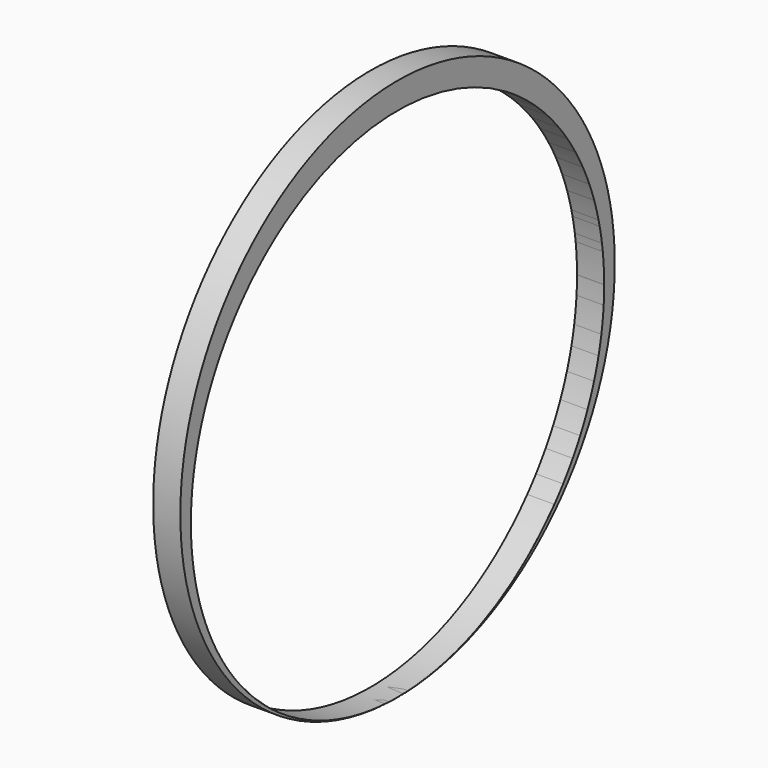
from build123d import *

# Parameters (mm, degrees)
F0_R     = 50
F1_DEPTH = 5


with BuildPart() as f1:
    # F0 (on Right) → F1 (new body)
    with BuildSketch(Plane.YZ):
        Circle(F0_R)
        with BuildLine():
            ThreePointArc((47.248112, 3.066945), (47.486037, 0.32898), (47.565433, -2.418156))
            ThreePointArc((47.565433, -2.418156), (47.565428, -2.440249), (47.565413, -2.462341))
            ThreePointArc((47.565413, -2.462341), (47.536276, -4.083355), (47.451912, -5.702434))
            ThreePointArc((47.451912, -5.702434), (47.241384, -7.960908), (46.923425, -10.206777))
            ThreePointArc((46.923425, -10.206777), (46.626401, -11.822901), (46.273731, -13.4278))
            ThreePointArc((46.273731, -13.4278), (45.790426, -15.290892), (45.232142, -17.132904))
            ThreePointArc((45.232142, -17.132904), (44.526808, -19.146391), (43.731895, -21.126225))
            ThreePointArc((43.731895, -21.126225), (42.925415, -22.909111), (42.046287, -24.657317))
            ThreePointArc((42.046287, -24.657317), (41.215832, -26.161064), (40.33162, -27.633844))
            ThreePointArc((40.33162, -27.633844), (39.257622, -29.275364), (38.116854, -30.871204))
            ThreePointArc((38.116854, -30.871204), (37.132326, -32.14459), (36.105277, -33.383935))
            ThreePointArc((36.105277, -33.383935), (0, -49.98359), (-36.105277, -33.383935))
            ThreePointArc((-36.105277, -33.383935), (-37.132326, -32.14459), (-38.116854, -30.871204))
            ThreePointArc((-38.116854, -30.871204), (-39.257622, -29.275364), (-40.33162, -27.633844))
            ThreePointArc((-40.33162, -27.633844), (-41.215832, -26.161064), (-42.046287, -24.657317))
            ThreePointArc((-42.046287, -24.657317), (-42.925415, -22.909111), (-43.731895, -21.126225))
            ThreePointArc((-43.731895, -21.126225), (-44.526808, -19.146391), (-45.232142, -17.132904))
            ThreePointArc((-45.232142, -17.132904), (-45.790426, -15.290892), (-46.273731, -13.4278))
            ThreePointArc((-46.273731, -13.4278), (-46.626401, -11.822901), (-46.923425, -10.206777))
            ThreePointArc((-46.923425, -10.206777), (-47.241384, -7.960908), (-47.451912, -5.702434))
            ThreePointArc((-47.451912, -5.702434), (-47.536276, -4.083355), (-47.565413, -2.462341))
            ThreePointArc((-47.565413, -2.462341), (-47.487308, 0.306924), (-47.248112, 3.066945))
            ThreePointArc((-47.248112, 3.066945), (-47.15882, 3.787982), (-47.058525, 4.507571))
            ThreePointArc((-47.058525, 4.507571), (-46.815862, 5.992878), (-46.526331, 7.469763))
            ThreePointArc((-46.526331, 7.469763), (-46.403436, 8.03132), (-46.273764, 8.591351))
            ThreePointArc((-46.273764, 8.591351), (-45.805713, 10.400077), (-45.266993, 12.189027))
            ThreePointArc((-45.266993, 12.189027), (-44.740599, 13.729576), (-44.161793, 15.251209))
            ThreePointArc((-44.161793, 15.251209), (-43.43838, 16.961669), (-42.648747, 18.642586))
            ThreePointArc((-42.648747, 18.642586), (-41.860885, 20.16805), (-41.018483, 21.664088))
            ThreePointArc((-41.018483, 21.664088), (-40.067748, 23.214753), (-39.05842, 24.727935))
            ThreePointArc((-39.05842, 24.727935), (-38.120143, 26.030484), (-37.138446, 27.30063))
            ThreePointArc((-37.138446, 27.30063), (-35.80078, 28.899165), (-34.394365, 30.43756))
            ThreePointArc((-34.394365, 30.43756), (-33.212951, 31.631371), (-31.990127, 32.782727))
            ThreePointArc((-31.990127, 32.782727), (-30.127888, 34.389191), (-28.185102, 35.897252))
            ThreePointArc((-28.185102, 35.897252), (-26.603538, 37.011809), (-24.977955, 38.061125))
            ThreePointArc((-24.977955, 38.061125), (0, 45.147277), (24.977955, 38.061125))
            ThreePointArc((24.977955, 38.061125), (26.603538, 37.011809), (28.185102, 35.897252))
            ThreePointArc((28.185102, 35.897252), (30.127888, 34.389191), (31.990127, 32.782727))
            ThreePointArc((31.990127, 32.782727), (33.212951, 31.631371), (34.394365, 30.43756))
            ThreePointArc((34.394365, 30.43756), (35.80078, 28.899165), (37.138446, 27.30063))
            ThreePointArc((37.138446, 27.30063), (38.120143, 26.030484), (39.05842, 24.727935))
            ThreePointArc((39.05842, 24.727935), (40.067748, 23.214753), (41.018483, 21.664088))
            ThreePointArc((41.018483, 21.664088), (41.860885, 20.16805), (42.648747, 18.642586))
            ThreePointArc((42.648747, 18.642586), (43.43838, 16.961669), (44.161793, 15.251209))
            ThreePointArc((44.161793, 15.251209), (44.740599, 13.729576), (45.266993, 12.189027))
            ThreePointArc((45.266993, 12.189027), (45.805713, 10.400077), (46.273764, 8.591351))
            ThreePointArc((46.273764, 8.591351), (46.403436, 8.03132), (46.526331, 7.469763))
            ThreePointArc((46.526331, 7.469763), (46.815862, 5.992878), (47.058525, 4.507571))
            ThreePointArc((47.058525, 4.507571), (47.15882, 3.787982), (47.248112, 3.066945))
        make_face(mode=Mode.SUBTRACT)
    extrude(amount=F1_DEPTH)


solid = f1.part
